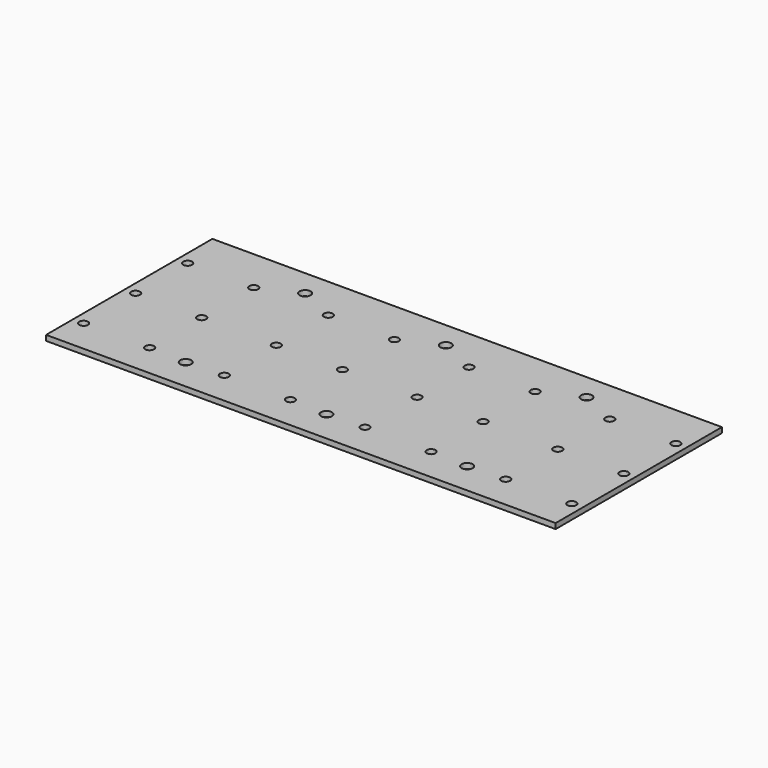
from build123d import *

# Parameters (mm, degrees)
F0_W     = 478
F0_H     = 195
F1_DEPTH = 5
F2_D     = 8.25
F3_D     = 10.3


with BuildPart() as f1:
    # F0 (on Top) → F1 (new body)
    with BuildSketch(Plane.XY):
        Rectangle(F0_W, F0_H)
    extrude(amount=F1_DEPTH)

    # F2 (through all)
    with Locations(Plane(origin=(0, 0, 0), x_dir=(1, 0, 0), z_dir=(0, 0, -1))):
        with Locations((-229, -56), (-229, 5), (-229, 66), (-167, -56), (-167, 5), (-167, 66), (-97, 66), (-97, 5), (-97, -56), (-35, -56), (-35, 5), (-35, 66), (35, 66), (35, 5), (35, -56), (97, -56), (97, 5), (97, 66), (167, 66), (167, 5), (167, -56), (229, -56), (229, 5), (229, 66)):
            Hole(F2_D / 2)

    # F3 (through all)
    with Locations(Plane(origin=(0, 0, 0), x_dir=(1, 0, 0), z_dir=(0, 0, -1))):
        with Locations((-132, -72.5), (-132, 67.5), (0, -72.5), (0, 67.5), (132, -72.5), (132, 67.5)):
            Hole(F3_D / 2)


solid = f1.part
